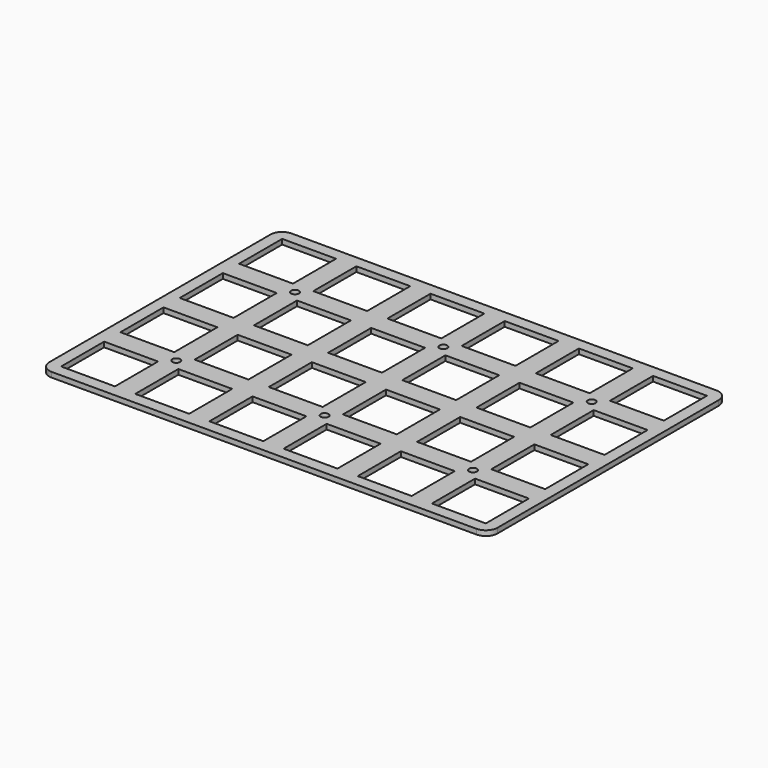
from build123d import *

# Parameters (mm, degrees)
SKETCH_R  = 1
SKETCH_W  = 13.8
SKETCH_H  = 13.8
PAD_DEPTH = 1.3


with BuildPart() as part:
    # Sketch → Pad (new body)
    with BuildSketch(Plane.XY):
        with BuildLine():
            ThreePointArc((0, 16.8), (-2.12132, 15.92132), (-3, 13.8))
            Line((-3, 13.8), (-3, -57))
            ThreePointArc((-3, -57), (-2.12132, -59.12132), (0, -60))
            Line((0, -60), (108.8, -60))
            ThreePointArc((108.8, -60), (110.92132, -59.12132), (111.8, -57))
            Line((111.8, -57), (111.8, 13.8))
            ThreePointArc((111.8, 13.8), (110.92132, 15.92132), (108.8, 16.8))
            Line((108.8, 16.8), (0, 16.8))
        make_face()
        with Locations((92.4, -40.6)):
            Circle(SKETCH_R, mode=Mode.SUBTRACT)
        with Locations((54.4, -40.6)):
            Circle(SKETCH_R, mode=Mode.SUBTRACT)
        with Locations((16.4, -40.6)):
            Circle(SKETCH_R, mode=Mode.SUBTRACT)
        with Locations((16.4, -2.6)):
            Circle(SKETCH_R, mode=Mode.SUBTRACT)
        with Locations((54.4, -2.6)):
            Circle(SKETCH_R, mode=Mode.SUBTRACT)
        with Locations((92.4, -2.6)):
            Circle(SKETCH_R, mode=Mode.SUBTRACT)
        with Locations((6.9, 6.9)):
            Rectangle(SKETCH_W, SKETCH_H, mode=Mode.SUBTRACT)
        with Locations((25.9, 6.9)):
            Rectangle(SKETCH_W, SKETCH_H, mode=Mode.SUBTRACT)
        with Locations((44.9, 6.9)):
            Rectangle(SKETCH_W, SKETCH_H, mode=Mode.SUBTRACT)
        with Locations((63.9, 6.9)):
            Rectangle(SKETCH_W, SKETCH_H, mode=Mode.SUBTRACT)
        with Locations((82.9, 6.9)):
            Rectangle(SKETCH_W, SKETCH_H, mode=Mode.SUBTRACT)
        with Locations((101.9, 6.9)):
            Rectangle(SKETCH_W, SKETCH_H, mode=Mode.SUBTRACT)
        with Locations((6.9, -12.1)):
            Rectangle(SKETCH_W, SKETCH_H, mode=Mode.SUBTRACT)
        with Locations((25.9, -12.1)):
            Rectangle(SKETCH_W, SKETCH_H, mode=Mode.SUBTRACT)
        with Locations((44.9, -12.1)):
            Rectangle(SKETCH_W, SKETCH_H, mode=Mode.SUBTRACT)
        with Locations((63.9, -12.1)):
            Rectangle(SKETCH_W, SKETCH_H, mode=Mode.SUBTRACT)
        with Locations((82.9, -12.1)):
            Rectangle(SKETCH_W, SKETCH_H, mode=Mode.SUBTRACT)
        with Locations((101.9, -12.1)):
            Rectangle(SKETCH_W, SKETCH_H, mode=Mode.SUBTRACT)
        with Locations((6.9, -31.1)):
            Rectangle(SKETCH_W, SKETCH_H, mode=Mode.SUBTRACT)
        with Locations((25.9, -31.1)):
            Rectangle(SKETCH_W, SKETCH_H, mode=Mode.SUBTRACT)
        with Locations((44.9, -31.1)):
            Rectangle(SKETCH_W, SKETCH_H, mode=Mode.SUBTRACT)
        with Locations((63.9, -31.1)):
            Rectangle(SKETCH_W, SKETCH_H, mode=Mode.SUBTRACT)
        with Locations((82.9, -31.1)):
            Rectangle(SKETCH_W, SKETCH_H, mode=Mode.SUBTRACT)
        with Locations((101.9, -31.1)):
            Rectangle(SKETCH_W, SKETCH_H, mode=Mode.SUBTRACT)
        with Locations((6.9, -50.1)):
            Rectangle(SKETCH_W, SKETCH_H, mode=Mode.SUBTRACT)
        with Locations((25.9, -50.1)):
            Rectangle(SKETCH_W, SKETCH_H, mode=Mode.SUBTRACT)
        with Locations((44.9, -50.1)):
            Rectangle(SKETCH_W, SKETCH_H, mode=Mode.SUBTRACT)
        with Locations((63.9, -50.1)):
            Rectangle(SKETCH_W, SKETCH_H, mode=Mode.SUBTRACT)
        with Locations((82.9, -50.1)):
            Rectangle(SKETCH_W, SKETCH_H, mode=Mode.SUBTRACT)
        with Locations((101.9, -50.1)):
            Rectangle(SKETCH_W, SKETCH_H, mode=Mode.SUBTRACT)
    extrude(amount=PAD_DEPTH)


solid = part.part
